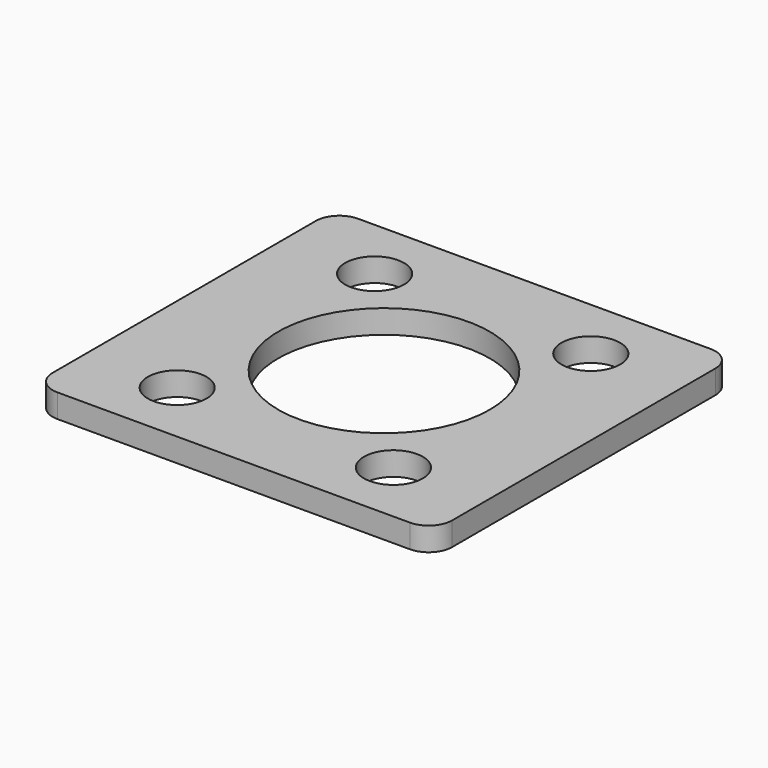
from build123d import *

# Parameters (mm, degrees)
SKETCH001_W   = 34
SKETCH001_H   = 32
SKETCH001_R   = 2.5
SKETCH001_R_2 = 9
PAD001_DEPTH  = 2
FILLET_R      = 2


with BuildPart() as part:
    # Sketch001 → Pad001 (new body)
    with BuildSketch(Plane.XY):
        Rectangle(SKETCH001_W, SKETCH001_H)
        with Locations((-9.2, 10.5)):
            Circle(SKETCH001_R, mode=Mode.SUBTRACT)
        with Locations((9.2, 10.5)):
            Circle(SKETCH001_R, mode=Mode.SUBTRACT)
        with Locations((-9.2, -10.5)):
            Circle(SKETCH001_R, mode=Mode.SUBTRACT)
        with Locations((9.2, -10.5)):
            Circle(SKETCH001_R, mode=Mode.SUBTRACT)
        Circle(SKETCH001_R_2, mode=Mode.SUBTRACT)
    extrude(amount=-PAD001_DEPTH)

    # Fillet
    fillet_edges = [part.edges().sort_by_distance(p)[0] for p in [
        (17, -16, -1),
        (17, 16, -1),
        (-17, -16, -1),
        (-17, 16, -1),
    ]]
    fillet(fillet_edges, radius=FILLET_R)


solid = part.part
